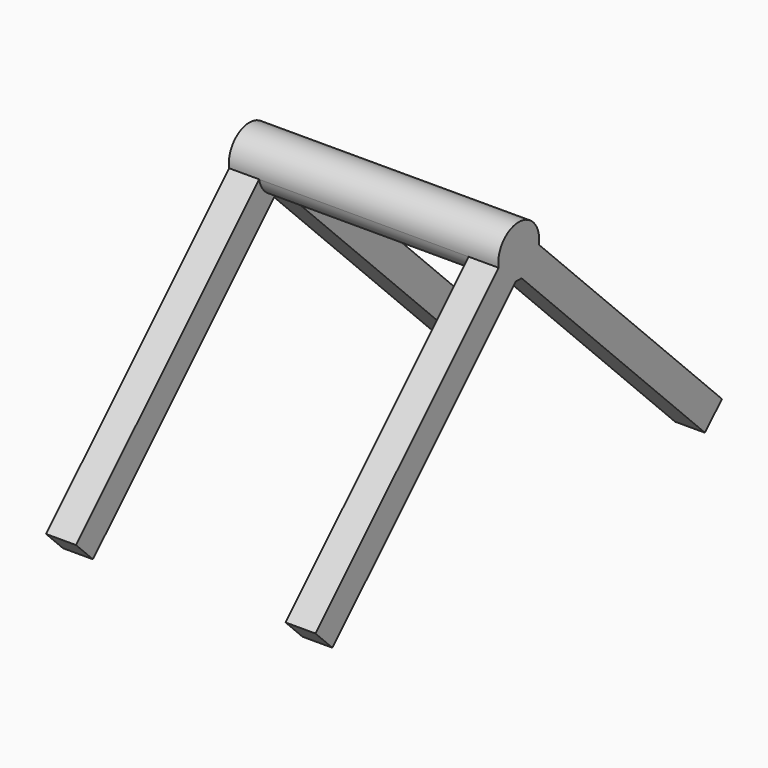
from build123d import *

# Parameters (mm, degrees)
F1_DEPTH = 6.35
F2_START = 50.8
F2_DEPTH = 6.35
F3_DEPTH = 57.15


with BuildPart() as f1:
    # F0 (on Right) → F1 (new body)
    with BuildSketch(Plane.YZ):
        with BuildLine():
            Line((-49.3914086659, -58.3716647869), (-0.7353354825, -9.7155916035))
            ThreePointArc((-0.7353354825, -9.7155916035), (-3.7417609774, -8.2639811349), (-5.3244428604, -5.3244428604))
            Line((-5.3244428604, -5.3244428604), (-53.8815367264, -53.8815367264))
            Line((-53.8815367264, -53.8815367264), (-49.3914086659, -58.3716647869))
        make_face()
    extrude(amount=F1_DEPTH)



with BuildPart() as f1b:
    # F0 (on Right) → F1, piece 2 (new body)
    with BuildSketch(Plane.YZ):
        with BuildLine():
            Line((53.8815367264, -53.8815367264), (5.3244428604, -5.3244428604))
            ThreePointArc((5.3244428604, -5.3244428604), (3.7417609774, -8.2639811349), (0.7353354825, -9.7155916035))
            Line((0.7353354825, -9.7155916035), (49.3914086659, -58.3716647869))
            Line((49.3914086659, -58.3716647869), (53.8815367264, -53.8815367264))
        make_face()
    extrude(amount=F1_DEPTH)


with BuildPart() as f2:
    # F0 (on Right) → F2 (new body)
    with BuildSketch(Plane.YZ.offset(F2_START)):
        with BuildLine():
            Line((-49.3914086659, -58.3716647869), (-0.7353354825, -9.7155916035))
            ThreePointArc((-0.7353354825, -9.7155916035), (-3.7417609774, -8.2639811349), (-5.3244428604, -5.3244428604))
            Line((-5.3244428604, -5.3244428604), (-53.8815367264, -53.8815367264))
            Line((-53.8815367264, -53.8815367264), (-49.3914086659, -58.3716647869))
        make_face()
    extrude(amount=F2_DEPTH)


with BuildPart() as f2b:
    # F0 (on Right) → F2, piece 2 (new body)
    with BuildSketch(Plane.YZ.offset(F2_START)):
        with BuildLine():
            Line((53.8815367264, -53.8815367264), (5.3244428604, -5.3244428604))
            ThreePointArc((5.3244428604, -5.3244428604), (3.7417609774, -8.2639811349), (0.7353354825, -9.7155916035))
            Line((0.7353354825, -9.7155916035), (49.3914086659, -58.3716647869))
            Line((49.3914086659, -58.3716647869), (53.8815367264, -53.8815367264))
        make_face()
    extrude(amount=F2_DEPTH)


with BuildPart() as f1_1:
    add(f1.part)

    add(f1b.part)  # F3 merges F1b

    add(f2.part)  # F3 merges F2

    add(f2b.part)  # F3 merges F2b
    # F0 (on Right) → F3 (join)
    with BuildSketch(Plane.YZ):
        with BuildLine():
            ThreePointArc((0.7353354825, -9.7155916035), (3.7417609774, -8.2639811349), (5.3244428604, -5.3244428604))
            ThreePointArc((5.3244428604, -5.3244428604), (5.3902466222, -4.8409706351), (5.4122407959, -4.3535367586))
            ThreePointArc((5.4122407959, -4.3535367586), (-0.4874338766, 1.0367098636), (-5.3244428604, -5.3244428604))
            ThreePointArc((-5.3244428604, -5.3244428604), (-3.7417609774, -8.2639811349), (-0.7353354825, -9.7155916035))
            ThreePointArc((-0.7353354825, -9.7155916035), (0, -9.7657775544), (0.7353354825, -9.7155916035))
        make_face()
    extrude(amount=F3_DEPTH)


solid = f1_1.part
